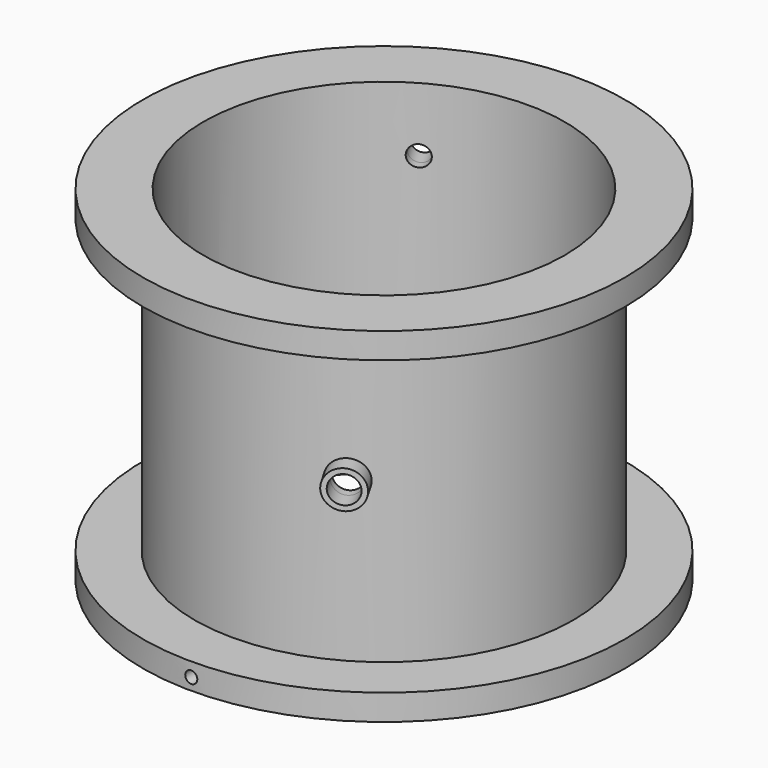
from build123d import *

# Parameters (mm, degrees)
F2_R      = 3.5
F3_DEPTH  = 150
F6_R      = 13.5
F6_R_2    = 10.5
F7_DEPTH  = 31
F0_W      = 20
F0_H      = 200
F11_W     = 15
F11_H     = 3
F14_DEPTH = 4000
F15_R     = 8
F16_DEPTH = 25
F17_R     = 6
F18_DEPTH = 25


with BuildPart() as f1:
    # F0 (on Front) → F1 (revolve)
    with BuildSketch(Plane.XZ):
        Polygon((105, 200), (105, 0), (140, 0), (140, 15), (110, 15), (110, 185), (140, 185), (140, 200), align=None)
    revolve(axis=Axis((0, 0, 98.8548472524), (0, 0, 1)))

    # F2 (on Front) → F3 (cut)
    with BuildSketch(Plane.XZ):
        with Locations((0, 7)):
            Circle(F2_R)
    extrude(amount=F3_DEPTH, mode=Mode.SUBTRACT)

    # F6 (on face) → F7 (join)
    with BuildSketch(Plane(origin=(-88.1154713186, 0, 97.8621451965), x_dir=(0.7431448255, 0, 0.6691306064), z_dir=(-0.6691306064, 0, 0.7431448255))):
        with Locations((-43.4296674365, 0)):
            Circle(F6_R)
        with Locations((-43.4296674365, 0)):
            Circle(F6_R_2, mode=Mode.SUBTRACT)
    extrude(amount=-F7_DEPTH)

    # F0 (on Front) → F8 (revolve, cut)
    with BuildSketch(Plane.XZ):
        with Locations((95, 100)):
            Rectangle(F0_W, F0_H)
    revolve(axis=Axis((0, 0, 98.8548472524), (0, 0, 1)), mode=Mode.SUBTRACT)

    # F11 (on line) → F12 (revolve)
    with BuildSketch(Plane(origin=(0, 0, 0), x_dir=(-0.5, 0.8660254038, 0), z_dir=(0.8660254038, 0.5, 0))):
        with Locations((112.5, 170.2096945047)):
            Rectangle(F11_W, F11_H)
    revolve(axis=Axis((-56.25, 97.4278579257, 162.7096945047), (-0.5, 0.8660254038, 0)))

    # F11 (on line) → F13 (revolve)
    with BuildSketch(Plane(origin=(0, 0, 0), x_dir=(-0.5, 0.8660254038, 0), z_dir=(0.8660254038, 0.5, 0))):
        with Locations((-112.5, 117.2096945047)):
            Rectangle(F11_W, F11_H)
    revolve(axis=Axis((56.25, -97.4278579257, 107.7096945047), (0.5, -0.8660254038, 0)))

    # F6 (on face) → F14 (cut)
    with BuildSketch(Plane(origin=(-88.1154713186, 0, 97.8621451965), x_dir=(0.7431448255, 0, 0.6691306064), z_dir=(-0.6691306064, 0, 0.7431448255))):
        with Locations((-43.4296674365, 0)):
            Circle(F6_R_2)
    extrude(amount=-F14_DEPTH, mode=Mode.SUBTRACT)

    # F15 (on face) → F16 (cut)
    with BuildSketch(Plane(origin=(60, -103.9230484541, 0), x_dir=(0.8660254038, 0.5, 0), z_dir=(0.5, -0.8660254038, 0))):
        with Locations((0, 107.7096945047)):
            Circle(F15_R)
    extrude(amount=-F16_DEPTH, mode=Mode.SUBTRACT)

    # F17 (on face) → F18 (cut)
    with BuildSketch(Plane(origin=(-60, 103.9230484541, 0), x_dir=(-0.8660254038, -0.5, 0), z_dir=(-0.5, 0.8660254038, 0))):
        with Locations((0, 162.7096945047)):
            Circle(F17_R)
    extrude(amount=-F18_DEPTH, mode=Mode.SUBTRACT)


solid = f1.part
